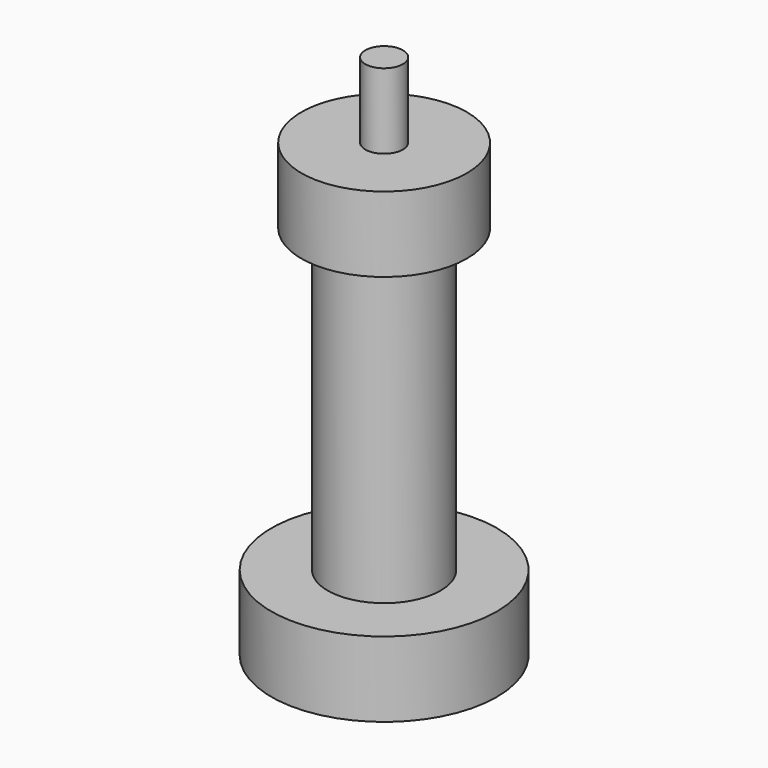
from build123d import *

# Parameters (mm, degrees)
F0_R     = 75
F1_DEPTH = 50
F2_R     = 37.5
F3_DEPTH = 200
F4_R     = 55
F4_R_2   = 37.5
F5_DEPTH = 50
F6_R     = 12.5
F7_DEPTH = 50


with BuildPart() as f1:
    # F0 (on Top) → F1 (new body)
    with BuildSketch(Plane.XY):
        Circle(F0_R)
    extrude(amount=F1_DEPTH)

    # F2 (on face) → F3 (join)
    with BuildSketch(Plane.XY.offset(50)):
        Circle(F2_R)
    extrude(amount=F3_DEPTH)

    # F4 (on face) → F5 (join)
    with BuildSketch(Plane.XY.offset(250)):
        Circle(F4_R)
        Circle(F4_R_2, mode=Mode.SUBTRACT)
        Circle(F4_R_2)
    extrude(amount=F5_DEPTH)

    # F6 (on face) → F7 (join)
    with BuildSketch(Plane.XY.offset(300)):
        Circle(F6_R)
    extrude(amount=F7_DEPTH)


solid = f1.part
